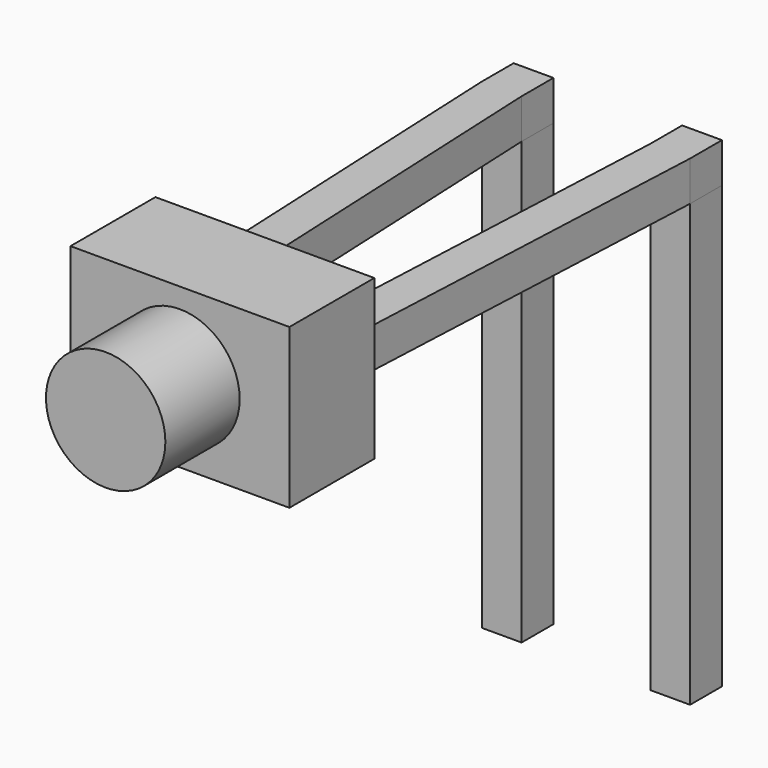
from build123d import *

# Parameters (mm, degrees)
SKETCH_W       = 0.6
SKETCH_H       = 0.6
PAD_DEPTH      = 4.65
PAD_DEPTH_BACK = 2
PAD001_DEPTH   = 0.6
SKETCH002_W    = 2.54
SKETCH002_H    = 0.6
PAD002_DEPTH   = 1
SKETCH004_W    = 3.3
SKETCH004_H    = 2.4
PAD003_DEPTH   = 1.6
SKETCH006_R    = 0.9
PAD004_DEPTH   = 1.4


with BuildPart() as pad:
    # Sketch → Pad (new body, two sides)
    with BuildSketch(Plane.XY) as pad_sk:
        Rectangle(SKETCH_W, SKETCH_H)
        with Locations((2.54, 0)):
            Rectangle(SKETCH_W, SKETCH_H)
    extrude(amount=PAD_DEPTH)
    extrude(pad_sk.sketch, amount=-PAD_DEPTH_BACK)


with BuildPart() as pad001:
    # Sketch001 → Pad001 (new body)
    with BuildSketch(Plane.XY.offset(4.65)):
        Polygon((0.3, 0.3), (-0.3, 0.3), (-0.3, -0.3), (0, -6.85), (0.6, -6.85), (0.3, -0.3), align=None)
        Polygon((2.84, 0.3), (2.24, 0.3), (2.24, -0.3), (1.94, -6.85), (2.54, -6.85), (2.84, -0.3), align=None)
    extrude(amount=PAD001_DEPTH)


with BuildPart() as pad002:
    # Sketch002 → Pad002 (new body)
    with BuildSketch(Plane.XZ.offset(6.85)):
        with Locations((1.27, 4.95)):
            Rectangle(SKETCH002_W, SKETCH002_H)
    extrude(amount=PAD002_DEPTH)


with BuildPart() as revolution001:
    # Sketch005 → Revolution001 (revolve)
    with BuildSketch(Plane.YZ.offset(1.27)):
        Polygon((-7.55, 4.95), (-8.05, 4.95), (-8.05, 5.45), align=None)
    revolve(axis=Axis((1.27, -3.977201, 4.95), (0, -1, 0)))


with BuildPart() as pad004:
    # Sketch004 → Pad003 (new body)
    with BuildSketch(Plane.XZ.offset(6.35)):
        with Locations((1.27, 4.95)):
            Rectangle(SKETCH004_W, SKETCH004_H)
    extrude(amount=PAD003_DEPTH)

    # Sketch006 → Pad004 (new body)
    with BuildSketch(Plane.XZ.offset(7.95)):
        with Locations((1.27, 4.95)):
            Circle(SKETCH006_R)
    extrude(amount=PAD004_DEPTH)


solid = Compound([pad.part, pad001.part, pad002.part, revolution001.part, pad004.part])
